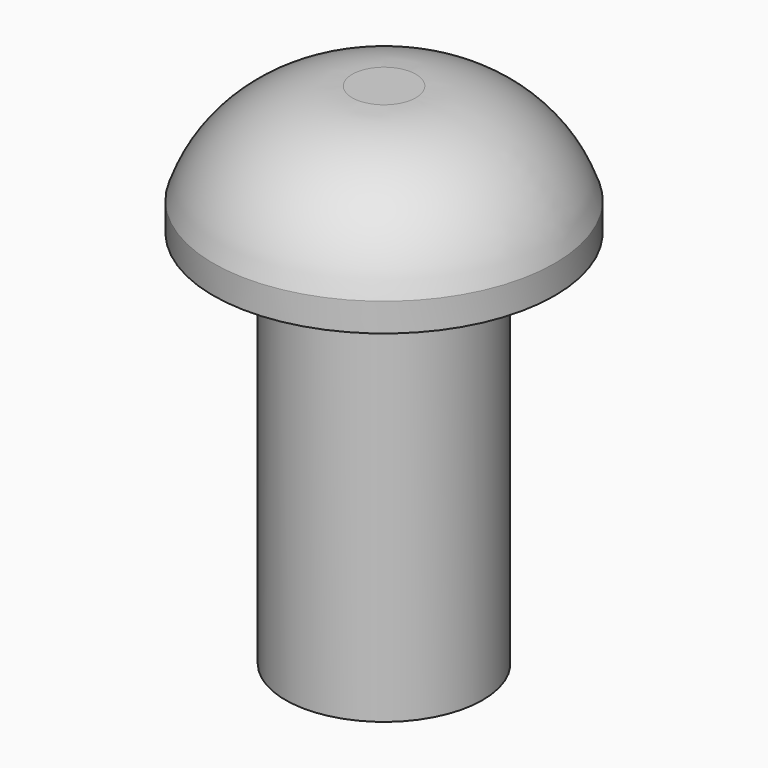
from build123d import *

# Parameters (mm, degrees)
F2_R     = 1.3
F3_DEPTH = 5


with BuildPart() as f1:
    # F0 (on Front) → F1 (revolve)
    with BuildSketch(Plane.XZ):
        with BuildLine():
            Line((0, 1.7), (0, 0))
            Line((0, 0), (2.25, 0))
            Line((2.25, 0), (2.25, 0.374671))
            ThreePointArc((2.25, 0.374671), (1.549614, 1.333876), (0.41976, 1.7))
            Line((0.41976, 1.7), (0, 1.7))
        make_face()
    revolve(axis=Axis((0, 0, 0.85), (0, 0, -1)))

    # F2 (on face) → F3 (join)
    with BuildSketch(Plane(origin=(0, 0, 0), x_dir=(1, 0, 0), z_dir=(0, 0, -1))):
        Circle(F2_R)
    extrude(amount=F3_DEPTH)


solid = f1.part
